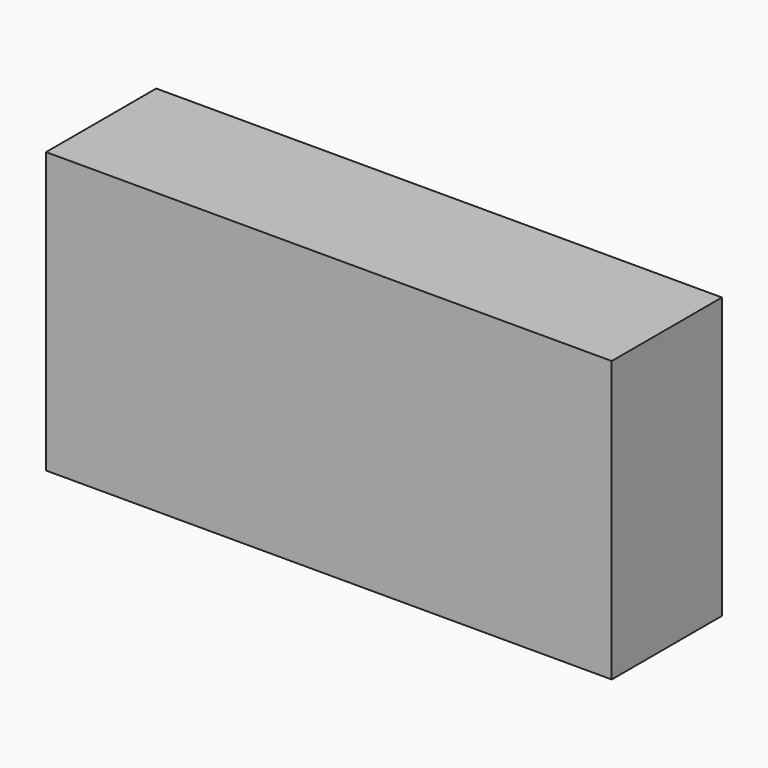
from build123d import *

# Parameters (mm, degrees)
F0_W     = 230
F0_H     = 114
F1_DEPTH = 76
F3_W     = 20
F3_H     = 76
F4_DEPTH = 230.001
F6_W     = 38
F6_H     = 20
F7_DEPTH = 114.001


with BuildPart() as f1:
    # F0 (on Front) → F1 (new body)
    with BuildSketch(Plane.XZ):
        Rectangle(F0_W, F0_H)
    extrude(amount=F1_DEPTH)

    # F3 (on offset) → F4 (cut, through all)
    with BuildSketch(Plane.YZ.offset(115)):
        with Locations((-10, 19)):
            Rectangle(F3_W, F3_H)
    extrude(amount=-F4_DEPTH, mode=Mode.SUBTRACT)

    # F6 (on offset) → F7 (cut, through all)
    with BuildSketch(Plane.XY.offset(-57)):
        with Locations((-96, -10)):
            Rectangle(F6_W, F6_H)
        with Locations((96, -10)):
            Rectangle(F6_W, F6_H)
    extrude(amount=F7_DEPTH, mode=Mode.SUBTRACT)


solid = f1.part
